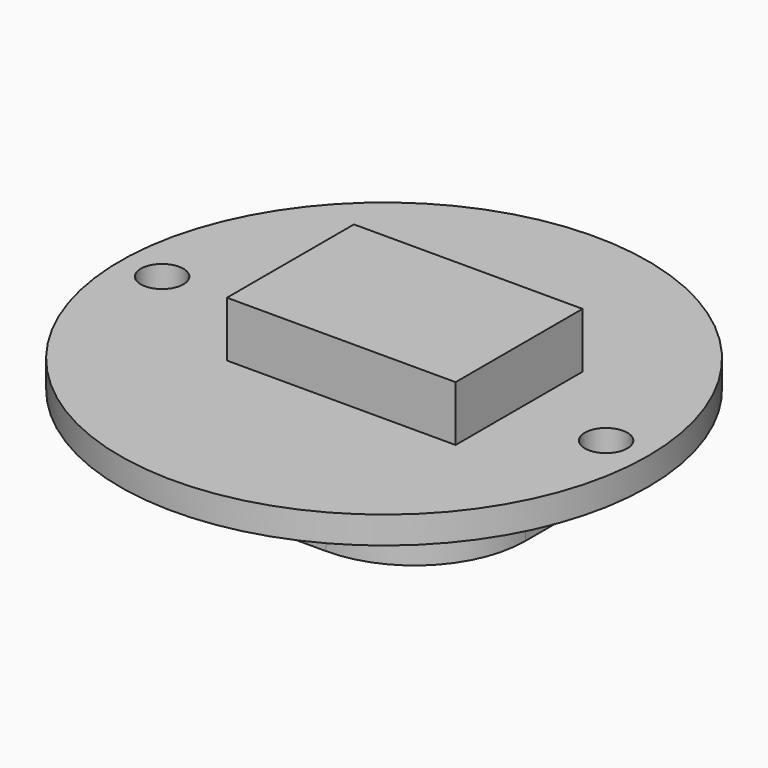
from build123d import *

# Parameters (mm, degrees)
F0_R     = 15.748
F0_R_2   = 1.27
F1_DEPTH = 1.6256
F2_W     = 13.6398
F2_H     = 9.46912
F3_DEPTH = 3.302
F4_W     = 21.336
F4_H     = 18.796
F5_DEPTH = 3.3528
F6_R     = 6.604


with BuildPart() as f1:
    # F0 (on Top) → F1 (new body)
    with BuildSketch(Plane.XY):
        Circle(F0_R)
        with Locations((-13.2461, 0)):
            Circle(F0_R_2, mode=Mode.SUBTRACT)
        with Locations((13.2461, 0)):
            Circle(F0_R_2, mode=Mode.SUBTRACT)
    extrude(amount=F1_DEPTH)

    # F2 (on face) → F3 (join)
    with BuildSketch(Plane.XY.offset(1.6256)):
        with Locations((1.2319, 0.00254)):
            Rectangle(F2_W, F2_H)
    extrude(amount=F3_DEPTH)

    # F4 (on Top) → F5 (join)
    with BuildSketch(Plane.XY):
        Rectangle(F4_W, F4_H)
    extrude(amount=-F5_DEPTH)

    # F6
    f6_edges = [f1.edges().sort_by_distance(p)[0] for p in [
        (10.668, -9.398, -1.6764),
        (-10.668, -9.398, -1.6764),
        (-10.668, 9.398, -1.6764),
        (10.668, 9.398, -1.6764),
    ]]
    fillet(f6_edges, radius=F6_R)


solid = f1.part
